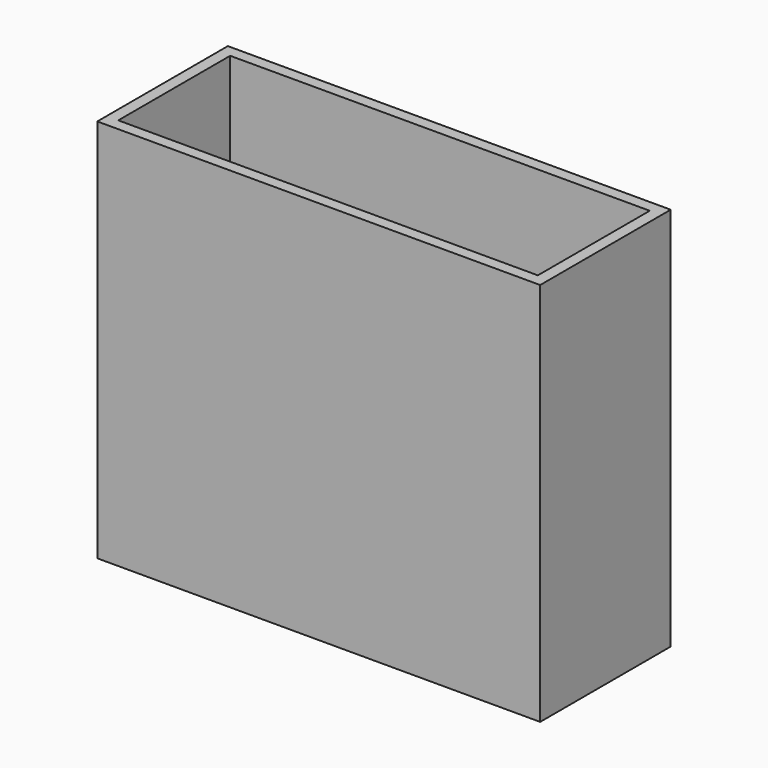
from build123d import *

# Parameters (mm, degrees)
BOX010_W     = 57.15
BOX010_H     = 19.05
BOX010_DEPTH = 50.8
BOX020_W     = 60.325
BOX020_H     = 22.225
BOX020_DEPTH = 52.3875


with BuildPart() as cube010:
    # Box010 → Box010 (new body)
    with BuildSketch(Plane(origin=(-28.575, -9.525, 0), x_dir=(1, 0, 0), z_dir=(0, 0, 1))):
        with Locations((28.575, 9.525)):
            Rectangle(BOX010_W, BOX010_H)
    extrude(amount=BOX010_DEPTH)


with BuildPart() as steel_cap:
    # Box020 → Box020 (new body)
    with BuildSketch(Plane(origin=(-30.1625, -11.1125, -1.5875), x_dir=(1, 0, 0), z_dir=(0, 0, 1))):
        with Locations((30.1625, 11.1125)):
            Rectangle(BOX020_W, BOX020_H)
    extrude(amount=BOX020_DEPTH)

    # Cut024: cut Cube010
    add(cube010.part, mode=Mode.SUBTRACT)


solid = steel_cap.part
